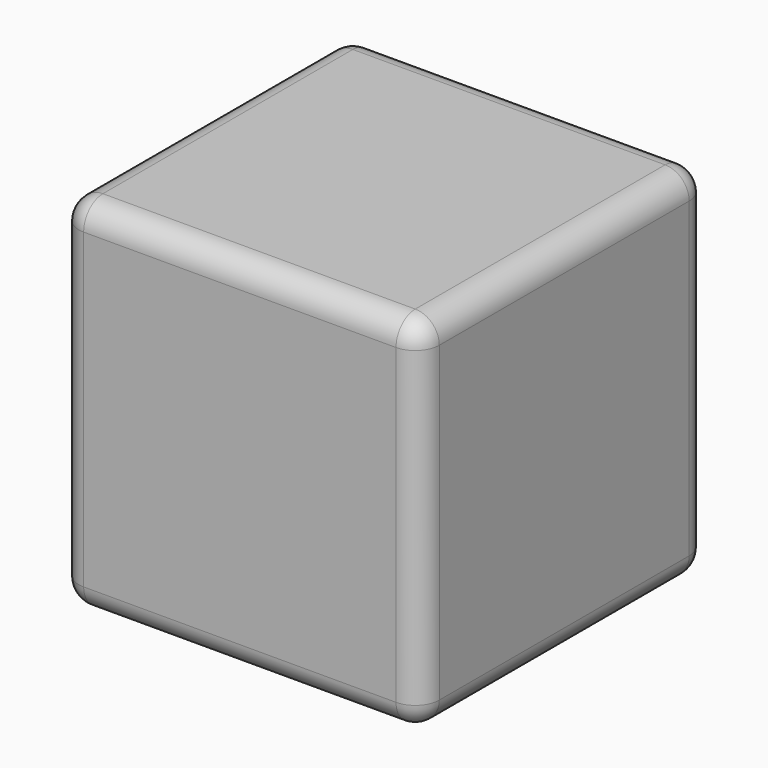
from build123d import *

# Parameters (mm, degrees)
F0_W     = 19.05
F0_H     = 19.05
F1_DEPTH = 19.05
F2_R     = 1.27


with BuildPart() as f1:
    # F0 (on Top) → F1 (new body)
    with BuildSketch(Plane.XY):
        Rectangle(F0_W, F0_H)
        Rectangle(F0_W, F0_H)
    extrude(amount=F1_DEPTH)

    # F2
    f2_edges = [f1.edges().sort_by_distance(p)[0] for p in [
        (9.525, 0, 19.05),
        (0, 9.525, 19.05),
        (-9.525, 0, 19.05),
        (0, -9.525, 19.05),
        (9.525, -9.525, 9.525),
        (9.525, 9.525, 9.525),
        (9.525, 0, 0),
        (-9.525, -9.525, 9.525),
        (0, -9.525, 0),
        (0, 9.525, 0),
        (-9.525, 0, 0),
        (-9.525, 9.525, 9.525),
    ]]
    fillet(f2_edges, radius=F2_R)


solid = f1.part
